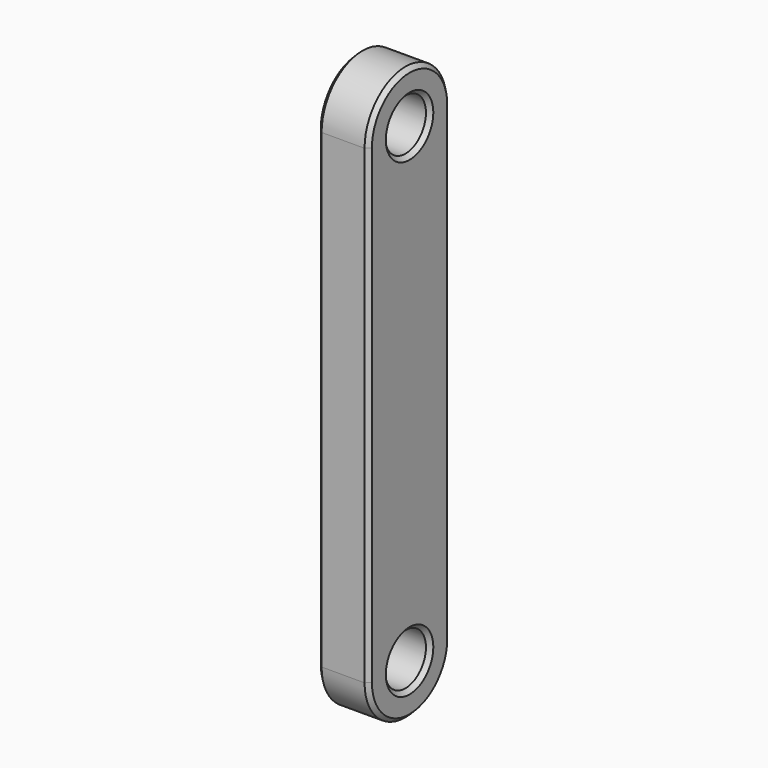
from build123d import *

# Parameters (mm, degrees)
F0_R     = 1.25
F1_DEPTH = 1.25
F2_SIZE  = 0.2


with BuildPart() as f1:
    # F0 (on Right) → F1 (new body, symmetric)
    with BuildSketch(Plane.YZ):
        with BuildLine():
            Line((2.5, -11.5), (2.5, 11.5))
            ThreePointArc((2.5, 11.5), (0, 14), (-2.5, 11.5))
            Line((-2.5, 11.5), (-2.5, -11.5))
            ThreePointArc((-2.5, -11.5), (0, -14), (2.5, -11.5))
        make_face()
        with Locations((0, -11.5)):
            Circle(F0_R, mode=Mode.SUBTRACT)
        with Locations((0, 11.5)):
            Circle(F0_R, mode=Mode.SUBTRACT)
    extrude(amount=F1_DEPTH, both=True)

    # F2
    f2_edges = [f1.edges().sort_by_distance(p)[0] for p in [
        (1.25, 2.5, 0),
        (1.25, 0, 14),
        (1.25, -2.5, 0),
        (1.25, 0, -14),
        (-1.25, 0, 14),
        (-1.25, 2.5, 0),
        (-1.25, -2.5, 0),
        (-1.25, 0, -14),
        (-1.25, -1.25, 11.5),
        (-1.25, -1.25, -11.5),
        (1.25, -1.25, 11.5),
        (1.25, -1.25, -11.5),
    ]]
    chamfer(f2_edges, length=F2_SIZE)


solid = f1.part
